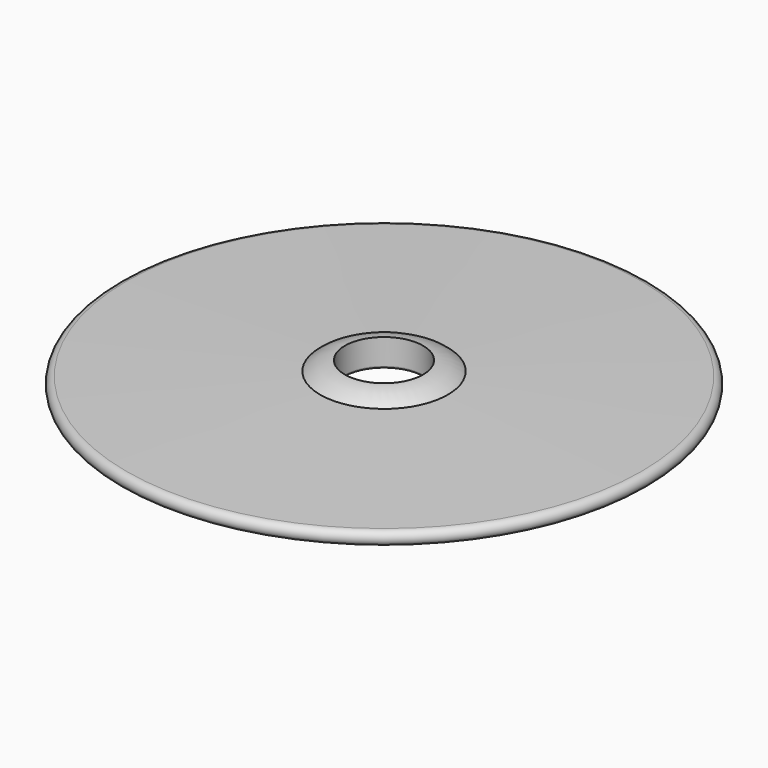
from build123d import *

# Parameters (mm, degrees)
CYLINDER_R         = 19
CYLINDER_DEPTH     = 20
FILLET001_R        = 1
CYLINDER012_R      = 1
CYLINDER012_DEPTH  = 5
CYLINDER013_R      = 1
CYLINDER013_DEPTH  = 10
POLARPATTERN_COUNT = 6


with BuildPart() as part:
    # Sketch → Revolution (revolve)
    with BuildSketch(Plane.XZ):
        with BuildLine():
            Line((0, 0), (-125, 0))
            ThreePointArc((-125.0765159951, 6.5991128054), (-128.2997781939, 3.2617394308), (-125, 0))
            Line((-125.0765159951, 6.5991128054), (0, 9.5))
            Line((0, 0), (0, 9.5))
        make_face()
    revolve(axis=Axis((0, 0, 0), (0, 0, 1)))

    # Sketch001 → Revolution001 (revolve)
    with BuildSketch(Plane.XZ):
        with BuildLine():
            Line((-19, 13.5), (0, 13.5))
            Line((0, 13.5), (0, 9.5))
            Line((0, 9.5), (-31, 8.7810200834))
            ThreePointArc((-19, 13.5), (-25.437061592, 12.2519237786), (-31, 8.7810200834))
        make_face()
    revolve(axis=Axis((0, 0, 0), (0, 0, 1)))

    # Cylinder → Cylinder (cut)
    with BuildSketch(Plane.XY):
        Circle(CYLINDER_R)
    extrude(amount=CYLINDER_DEPTH, mode=Mode.SUBTRACT)

    # Fillet001
    fillet001_edges = [part.edges().sort_by_distance(p)[0] for p in [
        (-19, 0, 0),
    ]]
    fillet(fillet001_edges, radius=FILLET001_R)

    # Cylinder012 → Cylinder012 (cut)
    with BuildSketch(Plane(origin=(-11.25, -93, 0), x_dir=(1, 0, 0), z_dir=(0, 0, 1))):
        Circle(CYLINDER012_R)
    cylinder012 = extrude(amount=CYLINDER012_DEPTH, mode=Mode.SUBTRACT)

    # Mirrored002: Cylinder012 across YZ
    add(cylinder012.mirror(Plane.YZ), mode=Mode.SUBTRACT)

    # Cylinder013 → Cylinder013 (cut)
    with BuildSketch(Plane(origin=(-24.5, 0, 0), x_dir=(1, 0, 0), z_dir=(0, 0, 1))):
        Circle(CYLINDER013_R)
    cylinder013 = extrude(amount=CYLINDER013_DEPTH, mode=Mode.SUBTRACT)

    # PolarPattern: Cylinder013 ×6 about axis
    polarpattern_axis = Axis((0, 0, 0), (0, 0, 1))
    for i in range(1, POLARPATTERN_COUNT):
        add(cylinder013.rotate(polarpattern_axis, i * 360 / POLARPATTERN_COUNT), mode=Mode.SUBTRACT)


solid = part.part
